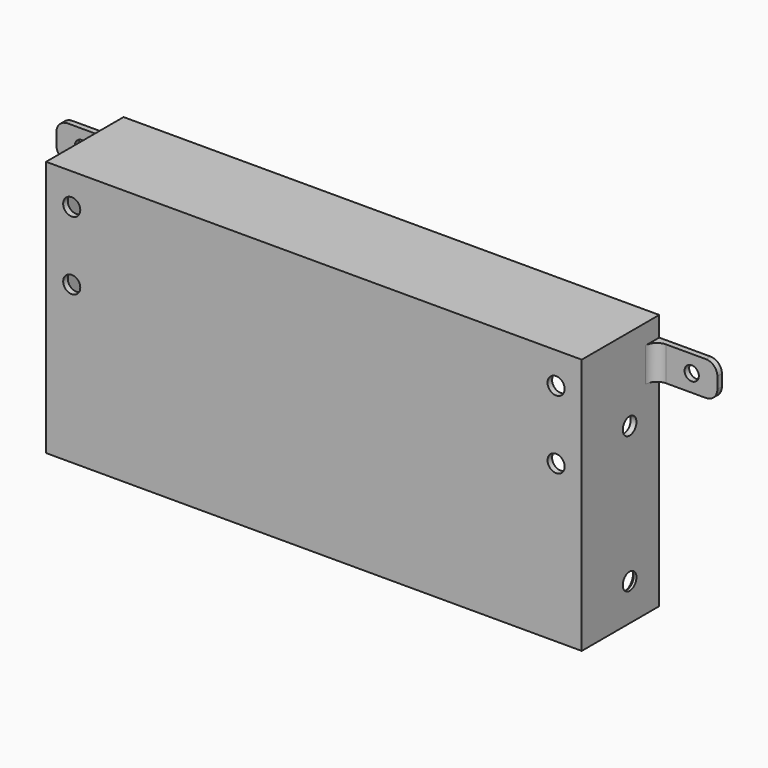
from build123d import *

# Parameters (mm, degrees)
F0_W      = 94
F0_H      = 45
F1_DEPTH  = 1
F2_W      = 1
F2_H      = 45
F3_DEPTH  = 16
F4_W      = 94
F4_H      = 17
F5_DEPTH  = 1
F6_W      = 1
F6_H      = 6
F7_DEPTH  = 11
F8_R      = 1.25
F8_R_2    = 1.5
F9_DEPTH  = 25
F10_R     = 2
F12_W     = 19.2678107619
F12_H     = 14.8564111814
F12_W_2   = 16.8835728168
F12_H_2   = 15.2771589719
F13_DEPTH = 25
F14_R     = 1.5
F15_DEPTH = 100
F16_SIZE  = 0.5
F17_R     = 1.5
F18_DEPTH = 100
F19_R     = 1.5
F20_DEPTH = 25


with BuildPart() as f1:
    # F0 (on Front) → F1 (new body)
    with BuildSketch(Plane.XZ):
        Rectangle(F0_W, F0_H)
    extrude(amount=F1_DEPTH)

    # F2 (on face) → F3 (join)
    with BuildSketch(Plane(origin=(0, 0, 0), x_dir=(-1, 0, 0), z_dir=(0, 1, 0))):
        with Locations((-46.5, 0)):
            Rectangle(F2_W, F2_H)
        with Locations((46.5, 0)):
            Rectangle(F2_W, F2_H)
    extrude(amount=F3_DEPTH)

    # F4 (on face) → F5 (join)
    with BuildSketch(Plane.XY.offset(22.5)):
        with Locations((0, 7.5)):
            Rectangle(F4_W, F4_H)
    extrude(amount=-F5_DEPTH)

    # F6 (on face) → F7 (join)
    with BuildSketch(Plane.YZ.offset(47)):
        with Locations((15.5, 16)):
            Rectangle(F6_W, F6_H)
        with Locations((15.5, -16)):
            Rectangle(F6_W, F6_H)
    extrude(amount=F7_DEPTH)

    # F8 (on face) → F9 (cut)
    with BuildSketch(Plane.XZ.offset(-15)):
        with Locations((53.5, 16)):
            Circle(F8_R)
        with Locations((53.5, -16)):
            Circle(F8_R_2)
    extrude(amount=-F9_DEPTH, mode=Mode.SUBTRACT)

    # F10
    f10_edges = [f1.edges().sort_by_distance(p)[0] for p in [
        (58, 15.5, -19),
        (58, 15.5, -13),
        (58, 15.5, 19),
        (58, 15.5, 13),
        (47, 15, -16),
        (47, 15, 16),
    ]]
    fillet(f10_edges, radius=F10_R)

    # F11: F1 across plane


with BuildPart() as f1_1:
    add(f1.part)
    add(f1.part.mirror(Plane.YZ))

    # F12 (on face) → F13 (cut)
    with BuildSketch(Plane.XZ.offset(1)):
        with Locations((56.633905381, -15.0717944093)):
            Rectangle(F12_W, F12_H)
        with Locations((-55.4417864084, -14.8614205141)):
            Rectangle(F12_W_2, F12_H_2)
    extrude(amount=-F13_DEPTH, mode=Mode.SUBTRACT)

    # F14 (on face) → F15 (cut)
    with BuildSketch(Plane(origin=(-47, 0, 0), x_dir=(0, -1, 0), z_dir=(-1, 0, 0))):
        with Locations((-9.5, -16)):
            Circle(F14_R)
    extrude(amount=-F15_DEPTH, mode=Mode.SUBTRACT)

    # F16
    f16_edges = [f1_1.edges().sort_by_distance(p)[0] for p in [
        (-46, 11, -16),
        (46, 11, -16),
    ]]
    chamfer(f16_edges, length=F16_SIZE)

    # F17 (on face) → F18 (cut)
    with BuildSketch(Plane(origin=(-47, 0, 0), x_dir=(0, -1, 0), z_dir=(-1, 0, 0))):
        with Locations((-9.5, 8)):
            Circle(F17_R)
    extrude(amount=-F18_DEPTH, mode=Mode.SUBTRACT)

    # F19 (on face) → F20 (cut)
    with BuildSketch(Plane.XZ.offset(1)):
        with Locations((-42.5, 17)):
            Circle(F19_R)
        with Locations((42.5, 17)):
            Circle(F19_R)
        with Locations((-42.5, 5)):
            Circle(F19_R)
        with Locations((42.5, 5)):
            Circle(F19_R)
    extrude(amount=-F20_DEPTH, mode=Mode.SUBTRACT)


solid = f1_1.part
